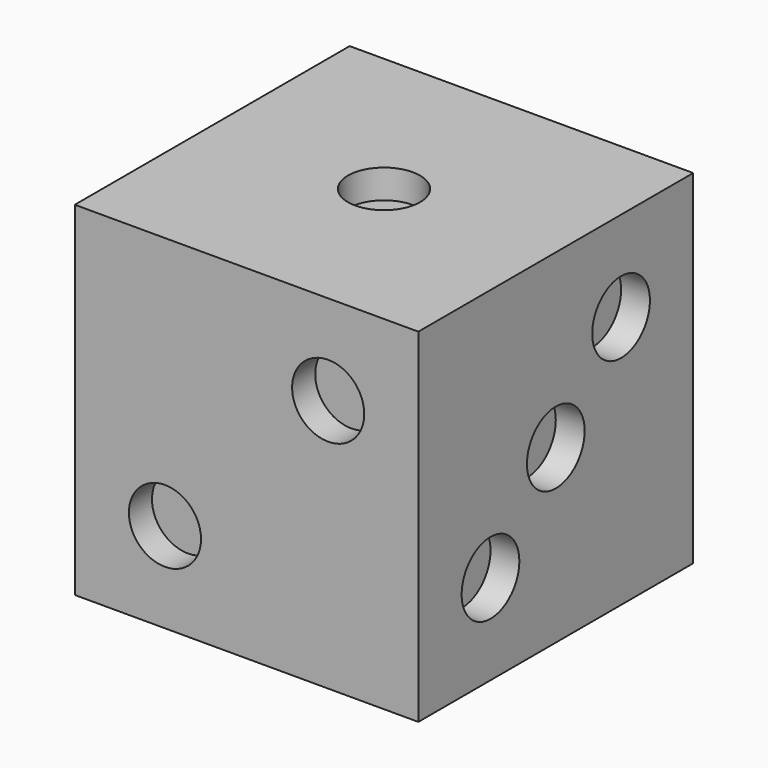
from build123d import *

# Parameters (mm, degrees)
F0_W      = 19.05
F0_H      = 19.05
F1_DEPTH  = 9.525
F2_R      = 2
F3_DEPTH  = 1.6
F4_R      = 2
F5_DEPTH  = 1.6
F6_R      = 2
F7_DEPTH  = 1.6
F8_R      = 2
F9_DEPTH  = 1.6
F10_R     = 2
F11_DEPTH = 1.6
F12_R     = 2
F13_DEPTH = 1.6


with BuildPart() as f1:
    # F0 (on Top) → F1 (new body, symmetric)
    with BuildSketch(Plane.XY):
        Rectangle(F0_W, F0_H)
    extrude(amount=F1_DEPTH, both=True)

    # F2 (on face) → F3 (cut)
    with BuildSketch(Plane.XY.offset(9.525)):
        Circle(F2_R)
    extrude(amount=-F3_DEPTH, mode=Mode.SUBTRACT)

    # F4 (on face) → F5 (cut)
    with BuildSketch(Plane.XZ.offset(9.525)):
        with Locations((4.525, 4.525)):
            Circle(F4_R)
        with Locations((-4.525, -4.525)):
            Circle(F4_R)
    extrude(amount=-F5_DEPTH, mode=Mode.SUBTRACT)

    # F6 (on face) → F7 (cut)
    with BuildSketch(Plane(origin=(0, 0, -9.525), x_dir=(1, 0, 0), z_dir=(0, 0, -1))):
        with Locations((-4.525, -4.525)):
            Circle(F6_R)
        with Locations((-4.525, 4.525)):
            Circle(F6_R)
        with Locations((4.525, -4.525)):
            Circle(F6_R)
        with Locations((4.525, 4.525)):
            Circle(F6_R)
        with Locations((-4.525, 0)):
            Circle(F6_R)
        with Locations((4.525, 0)):
            Circle(F6_R)
    extrude(amount=-F7_DEPTH, mode=Mode.SUBTRACT)

    # F8 (on face) → F9 (cut)
    with BuildSketch(Plane(origin=(0, 9.525, 0), x_dir=(-1, 0, 0), z_dir=(0, 1, 0))):
        with Locations((-4.525, -4.525)):
            Circle(F8_R)
        with Locations((-4.525, 4.525)):
            Circle(F8_R)
        with Locations((4.525, -4.525)):
            Circle(F8_R)
        with Locations((4.525, 4.525)):
            Circle(F8_R)
        Circle(F8_R)
    extrude(amount=-F9_DEPTH, mode=Mode.SUBTRACT)

    # F10 (on face) → F11 (cut)
    with BuildSketch(Plane.YZ.offset(9.525)):
        Circle(F10_R)
        with Locations((4.525, 4.525)):
            Circle(F10_R)
        with Locations((-4.525, -4.525)):
            Circle(F10_R)
    extrude(amount=-F11_DEPTH, mode=Mode.SUBTRACT)

    # F12 (on face) → F13 (cut)
    with BuildSketch(Plane(origin=(-9.525, 0, 0), x_dir=(0, -1, 0), z_dir=(-1, 0, 0))):
        with Locations((-4.525, -4.525)):
            Circle(F12_R)
        with Locations((-4.525, 4.525)):
            Circle(F12_R)
        with Locations((4.525, -4.525)):
            Circle(F12_R)
        with Locations((4.525, 4.525)):
            Circle(F12_R)
    extrude(amount=-F13_DEPTH, mode=Mode.SUBTRACT)


solid = f1.part
